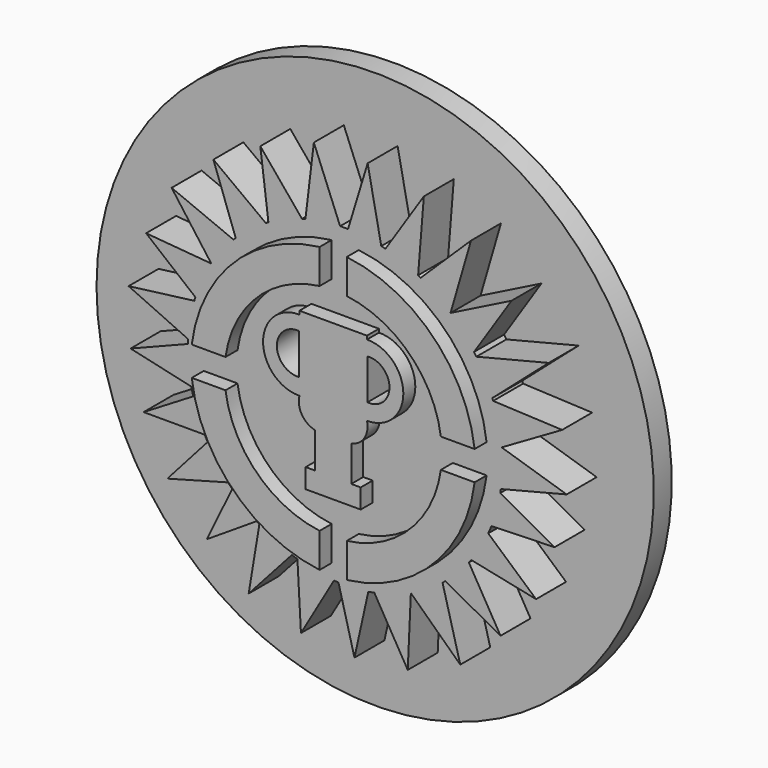
from build123d import *

# Parameters (mm, degrees)
F1_DEPTH = 6.35
F2_DEPTH = 8.89
F3_R     = 47.231154
F4_DEPTH = 3.81


with BuildPart() as f1:
    # F0 (on Front) → F1 (new body)
    with BuildSketch(Plane.XZ):
        with BuildLine():
            Line((-72.468472, 25.497057), (-62.116886, 25.497057))
            ThreePointArc((-62.116886, 25.497057), (-63.211959, 27.991302), (-64.046652, 30.584319))
            Line((-64.046652, 30.584319), (-72.468472, 25.497057))
        make_face()
        with BuildLine():
            Line((-68.440348, 16.882773), (-58.145573, 19.662977))
            ThreePointArc((-58.145573, 19.662977), (-60.02173, 22.01151), (-61.621433, 24.556412))
            Line((-61.621433, 24.556412), (-68.440348, 16.882773))
        make_face()
        with BuildLine():
            Line((-61.740946, 10.013767), (-53.325096, 15.437365))
            ThreePointArc((-53.325096, 15.437365), (-55.474469, 17.070756), (-57.447538, 18.913246))
            Line((-57.447538, 18.913246), (-61.740946, 10.013767))
        make_face()
        with BuildLine():
            Line((-54.659933, 4.204792), (-47.321835, 12.370412))
            ThreePointArc((-47.321835, 12.370412), (-50.163723, 13.583659), (-52.846042, 15.117758))
            Line((-52.846042, 15.117758), (-54.659933, 4.204792))
        make_face()
        with BuildLine():
            Line((-45.798071, 1.194302), (-40.197733, 10.863806))
            ThreePointArc((-40.197733, 10.863806), (-43.33033, 11.275472), (-46.392177, 12.055038))
            Line((-46.392177, 12.055038), (-45.798071, 1.194302))
        make_face()
        with BuildLine():
            Line((-27.692726, 1.575914), (-27.164938, 13.233446))
            ThreePointArc((-27.164938, 13.233446), (-30.199563, 12.056629), (-33.355031, 11.258583))
            Line((-33.355031, 11.258583), (-27.692726, 1.575914))
        make_face()
        with BuildLine():
            Line((-36.724199, 0.473481), (-34.378867, 11.085872))
            ThreePointArc((-34.378867, 11.085872), (-36.901094, 10.832685), (-39.435966, 10.82032))
            Line((-39.435966, 10.82032), (-36.724199, 0.473481))
        make_face()
        with BuildLine():
            Line((-18.788459, 5.264825), (-21.794904, 16.522102))
            ThreePointArc((-21.794904, 16.522102), (-24.382431, 14.718584), (-27.164938, 13.233446))
            Line((-27.164938, 13.233446), (-18.788459, 5.264825))
        make_face()
        with BuildLine():
            Line((-11.961851, 11.79462), (-17.338687, 20.989131))
            ThreePointArc((-17.338687, 20.989131), (-19.219819, 18.840528), (-21.32009, 16.905583))
            Line((-21.32009, 16.905583), (-11.961851, 11.79462))
        make_face()
        with BuildLine():
            Line((-5.94087, 19.214842), (-14.050301, 26.395063))
            ThreePointArc((-14.050301, 26.395063), (-15.369085, 23.868043), (-16.950265, 21.496357))
            Line((-16.950265, 21.496357), (-5.94087, 19.214842))
        make_face()
        with BuildLine():
            Line((-2.803177, 27.991908), (-12.01095, 33.086167))
            ThreePointArc((-12.01095, 33.086167), (-12.618733, 30.331533), (-13.514323, 27.656588))
            Line((-13.514323, 27.656588), (-2.803177, 27.991908))
        make_face()
        with BuildLine():
            ThreePointArc((-11.772855, 39.971174), (-11.682633, 38.707943), (-11.652537, 37.441852))
            ThreePointArc((-11.652537, 37.441852), (-11.718199, 35.572378), (-11.914862, 33.712118))
            Line((-11.914862, 33.712118), (-0.750545, 36.533233))
            Line((-0.750545, 36.533233), (-11.772855, 39.971174))
        make_face()
        with BuildLine():
            ThreePointArc((-13.215669, 46.433987), (-12.292717, 43.247575), (-11.772855, 39.971174))
            Line((-11.772855, 39.971174), (-1.516628, 45.914907))
            Line((-1.516628, 45.914907), (-13.215669, 46.433987))
        make_face()
        with BuildLine():
            ThreePointArc((-16.055091, 52.112807), (-14.558451, 49.542126), (-13.357668, 46.820646))
            Line((-13.357668, 46.820646), (-3.80768, 55.16896))
            Line((-3.80768, 55.16896), (-16.055091, 52.112807))
        make_face()
        with BuildLine():
            ThreePointArc((-20.436903, 57.21477), (-18.31548, 55.068095), (-16.450419, 52.69529))
            Line((-16.450419, 52.69529), (-10.096844, 62.401496))
            Line((-10.096844, 62.401496), (-20.436903, 57.21477))
        make_face()
        with BuildLine():
            ThreePointArc((-25.497871, 60.81165), (-22.862262, 59.161126), (-20.436903, 57.21477))
            Line((-20.436903, 57.21477), (-16.969999, 69.139883))
            Line((-16.969999, 69.139883), (-25.497871, 60.81165))
        make_face()
        with BuildLine():
            ThreePointArc((-31.47247, 63.198546), (-28.644405, 62.277334), (-25.936627, 61.046672))
            Line((-25.936627, 61.046672), (-24.966219, 73.137991))
            Line((-24.966219, 73.137991), (-31.47247, 63.198546))
        make_face()
        with BuildLine():
            ThreePointArc((-37.811687, 64.083234), (-34.977744, 63.87996), (-32.181556, 63.376091))
            Line((-32.181556, 63.376091), (-34.489807, 74.979819))
            Line((-34.489807, 74.979819), (-37.811687, 64.083234))
        make_face()
        with BuildLine():
            ThreePointArc((-45.039301, 63.220911), (-42.122507, 63.811835), (-39.158008, 64.073808))
            Line((-39.158008, 64.073808), (-43.60909, 75.114585))
            Line((-43.60909, 75.114585), (-45.039301, 63.220911))
        make_face()
        with BuildLine():
            ThreePointArc((-51.31089, 60.694255), (-48.530531, 62.044756), (-45.61248, 63.064182))
            Line((-45.61248, 63.064182), (-52.68345, 71.61063))
            Line((-52.68345, 71.61063), (-51.31089, 60.694255))
        make_face()
        with BuildLine():
            ThreePointArc((-56.859722, 56.559281), (-54.422673, 58.655215), (-51.750978, 60.442445))
            Line((-51.750978, 60.442445), (-60.634747, 67.028522))
            Line((-60.634747, 67.028522), (-56.859722, 56.559281))
        make_face()
        with BuildLine():
            ThreePointArc((-60.99712, 51.397732), (-59.253808, 53.899964), (-57.236001, 56.186611))
            Line((-57.236001, 56.186611), (-67.719519, 60.513683))
            Line((-67.719519, 60.513683), (-60.99712, 51.397732))
        make_face()
        with BuildLine():
            ThreePointArc((-63.694328, 45.506906), (-62.525435, 48.534603), (-60.99712, 51.397732))
            Line((-60.99712, 51.397732), (-72.044447, 52.330237))
            Line((-72.044447, 52.330237), (-63.694328, 45.506906))
        make_face()
        with BuildLine():
            ThreePointArc((-64.907544, 38.838859), (-64.568395, 41.901175), (-63.878012, 44.90387))
            Line((-63.878012, 44.90387), (-75.012535, 43.468371))
            Line((-75.012535, 43.468371), (-64.907544, 38.838859))
        make_face()
        with BuildLine():
            ThreePointArc((-64.368101, 31.931053), (-64.832743, 35.007338), (-64.935641, 38.116812))
            Line((-64.935641, 38.116812), (-74.673332, 34.267295))
            Line((-74.673332, 34.267295), (-64.368101, 31.931053))
        make_face()
        with BuildLine():
            ThreePointArc((-11.914862, 33.712118), (-11.718199, 35.572378), (-11.652537, 37.441852))
            ThreePointArc((-11.652537, 37.441852), (-11.682633, 38.707943), (-11.772855, 39.971174))
            ThreePointArc((-11.772855, 39.971174), (-12.292717, 43.247575), (-13.215669, 46.433987))
            ThreePointArc((-13.215669, 46.433987), (-13.285921, 46.627591), (-13.357668, 46.820646))
            ThreePointArc((-13.357668, 46.820646), (-14.558451, 49.542126), (-16.055091, 52.112807))
            ThreePointArc((-16.055091, 52.112807), (-16.250831, 52.405354), (-16.450419, 52.69529))
            ThreePointArc((-16.450419, 52.69529), (-18.31548, 55.068095), (-20.436903, 57.21477))
            ThreePointArc((-20.436903, 57.21477), (-22.862262, 59.161126), (-25.497871, 60.81165))
            ThreePointArc((-25.497871, 60.81165), (-25.7167, 60.930186), (-25.936627, 61.046672))
            ThreePointArc((-25.936627, 61.046672), (-28.644405, 62.277334), (-31.47247, 63.198546))
            ThreePointArc((-31.47247, 63.198546), (-31.826404, 63.28975), (-32.181556, 63.376091))
            ThreePointArc((-32.181556, 63.376091), (-34.977744, 63.87996), (-37.811687, 64.083234))
            ThreePointArc((-37.811687, 64.083234), (-38.484907, 64.087026), (-39.158008, 64.073808))
            ThreePointArc((-39.158008, 64.073808), (-42.122507, 63.811835), (-45.039301, 63.220911))
            ThreePointArc((-45.039301, 63.220911), (-45.326327, 63.144144), (-45.61248, 63.064182))
            ThreePointArc((-45.61248, 63.064182), (-48.530531, 62.044756), (-51.31089, 60.694255))
            ThreePointArc((-51.31089, 60.694255), (-51.531533, 60.569397), (-51.750978, 60.442445))
            ThreePointArc((-51.750978, 60.442445), (-54.422673, 58.655215), (-56.859722, 56.559281))
            ThreePointArc((-56.859722, 56.559281), (-57.048788, 56.373881), (-57.236001, 56.186611))
            ThreePointArc((-57.236001, 56.186611), (-59.253808, 53.899964), (-60.99712, 51.397732))
            ThreePointArc((-60.99712, 51.397732), (-62.525435, 48.534603), (-63.694328, 45.506906))
            ThreePointArc((-63.694328, 45.506906), (-63.787954, 45.205932), (-63.878012, 44.90387))
            ThreePointArc((-63.878012, 44.90387), (-64.568395, 41.901175), (-64.907544, 38.838859))
            ThreePointArc((-64.907544, 38.838859), (-64.924041, 38.47793), (-64.935641, 38.116812))
            ThreePointArc((-64.935641, 38.116812), (-64.832743, 35.007338), (-64.368101, 31.931053))
            ThreePointArc((-64.368101, 31.931053), (-64.216126, 31.255598), (-64.046652, 30.584319))
            ThreePointArc((-64.046652, 30.584319), (-63.211959, 27.991302), (-62.116886, 25.497057))
            ThreePointArc((-62.116886, 25.497057), (-61.873851, 25.024263), (-61.621433, 24.556412))
            ThreePointArc((-61.621433, 24.556412), (-60.02173, 22.01151), (-58.145573, 19.662977))
            ThreePointArc((-58.145573, 19.662977), (-57.800159, 19.284757), (-57.447538, 18.913246))
            ThreePointArc((-57.447538, 18.913246), (-55.474469, 17.070756), (-53.325096, 15.437365))
            ThreePointArc((-53.325096, 15.437365), (-53.086433, 15.276267), (-52.846042, 15.117758))
            ThreePointArc((-52.846042, 15.117758), (-50.163723, 13.583659), (-47.321835, 12.370412))
            ThreePointArc((-47.321835, 12.370412), (-46.858458, 12.208444), (-46.392177, 12.055038))
            ThreePointArc((-46.392177, 12.055038), (-43.33033, 11.275472), (-40.197733, 10.863806))
            ThreePointArc((-40.197733, 10.863806), (-39.817005, 10.839336), (-39.435966, 10.82032))
            ThreePointArc((-39.435966, 10.82032), (-36.901094, 10.832685), (-34.378867, 11.085872))
            ThreePointArc((-34.378867, 11.085872), (-33.866108, 11.16724), (-33.355031, 11.258583))
            ThreePointArc((-33.355031, 11.258583), (-30.199563, 12.056629), (-27.164938, 13.233446))
            ThreePointArc((-27.164938, 13.233446), (-24.382431, 14.718584), (-21.794904, 16.522102))
            ThreePointArc((-21.794904, 16.522102), (-21.556399, 16.712483), (-21.32009, 16.905583))
            ThreePointArc((-21.32009, 16.905583), (-19.219819, 18.840528), (-17.338687, 20.989131))
            ThreePointArc((-17.338687, 20.989131), (-17.142956, 21.24158), (-16.950265, 21.496357))
            ThreePointArc((-16.950265, 21.496357), (-15.369085, 23.868043), (-14.050301, 26.395063))
            ThreePointArc((-14.050301, 26.395063), (-13.774199, 27.022379), (-13.514323, 27.656588))
            ThreePointArc((-13.514323, 27.656588), (-12.618733, 30.331533), (-12.01095, 33.086167))
            ThreePointArc((-12.01095, 33.086167), (-11.961046, 33.398857), (-11.914862, 33.712118))
        make_face()
        with BuildLine():
            Line((-62.272575, 34.958918), (-56.551188, 34.958918))
            ThreePointArc((-56.551188, 34.958918), (-51.24926, 24.364516), (-40.599231, 19.175231))
            Line((-40.599231, 19.175231), (-40.599231, 13.341561))
            ThreePointArc((-40.599231, 13.341561), (-55.165827, 20.410655), (-62.272575, 34.958918))
        make_face(mode=Mode.SUBTRACT)
        with BuildLine():
            Line((-44.019647, 50.325666), (-44.019647, 50.912552))
            Line((-44.019647, 50.912552), (-38.298364, 50.912552))
            Line((-38.298364, 50.912552), (-32.577081, 50.912552))
            Line((-32.577081, 50.912552), (-32.577081, 50.325666))
            ThreePointArc((-32.577081, 50.325666), (-26.408391, 44.270882), (-32.577081, 38.216099))
            ThreePointArc((-32.577081, 38.216099), (-33.00076, 35.515299), (-35.236961, 33.942647))
            Line((-35.236961, 33.942647), (-35.236961, 27.918598))
            Line((-35.236961, 27.918598), (-33.635846, 27.918598))
            Line((-33.635846, 27.918598), (-33.635846, 24.611946))
            Line((-33.635846, 24.611946), (-38.298364, 24.611946))
            Line((-38.298364, 24.611946), (-42.960882, 24.611946))
            Line((-42.960882, 24.611946), (-42.960882, 27.918598))
            Line((-42.960882, 27.918598), (-41.359767, 27.918598))
            Line((-41.359767, 27.918598), (-41.359767, 33.942647))
            ThreePointArc((-41.359767, 33.942647), (-43.595968, 35.515299), (-44.019647, 38.216099))
            ThreePointArc((-44.019647, 38.216099), (-50.188337, 44.270882), (-44.019647, 50.325666))
        make_face(mode=Mode.SUBTRACT)
        with BuildLine():
            Line((-35.997497, 13.341561), (-35.997497, 19.175231))
            ThreePointArc((-35.997497, 19.175231), (-25.347468, 24.364516), (-20.04554, 34.958918))
            Line((-20.04554, 34.958918), (-14.324153, 34.958918))
            ThreePointArc((-14.324153, 34.958918), (-21.430901, 20.410655), (-35.997497, 13.341561))
        make_face(mode=Mode.SUBTRACT)
        with BuildLine():
            ThreePointArc((-40.599231, 55.708472), (-51.24926, 50.519188), (-56.551188, 39.924786))
            Line((-56.551188, 39.924786), (-62.272575, 39.924786))
            ThreePointArc((-62.272575, 39.924786), (-55.165827, 54.473048), (-40.599231, 61.542143))
            Line((-40.599231, 61.542143), (-40.599231, 55.708472))
        make_face(mode=Mode.SUBTRACT)
        with BuildLine():
            ThreePointArc((-20.04554, 39.924786), (-25.347468, 50.519188), (-35.997497, 55.708472))
            Line((-35.997497, 55.708472), (-35.997497, 61.542143))
            ThreePointArc((-35.997497, 61.542143), (-21.430901, 54.473048), (-14.324153, 39.924786))
            Line((-14.324153, 39.924786), (-20.04554, 39.924786))
        make_face(mode=Mode.SUBTRACT)
    extrude(amount=F1_DEPTH)

    # F0 (on Front) → F2 (join)
    with BuildSketch(Plane.XZ):
        with BuildLine():
            ThreePointArc((-40.599231, 19.175231), (-51.24926, 24.364516), (-56.551188, 34.958918))
            Line((-56.551188, 34.958918), (-62.272575, 34.958918))
            ThreePointArc((-62.272575, 34.958918), (-55.165827, 20.410655), (-40.599231, 13.341561))
            Line((-40.599231, 13.341561), (-40.599231, 19.175231))
        make_face()
        with BuildLine():
            ThreePointArc((-20.04554, 34.958918), (-25.347468, 24.364516), (-35.997497, 19.175231))
            Line((-35.997497, 19.175231), (-35.997497, 13.341561))
            ThreePointArc((-35.997497, 13.341561), (-21.430901, 20.410655), (-14.324153, 34.958918))
            Line((-14.324153, 34.958918), (-20.04554, 34.958918))
        make_face()
        with BuildLine():
            Line((-35.997497, 61.542143), (-35.997497, 55.708472))
            ThreePointArc((-35.997497, 55.708472), (-25.347468, 50.519188), (-20.04554, 39.924786))
            Line((-20.04554, 39.924786), (-14.324153, 39.924786))
            ThreePointArc((-14.324153, 39.924786), (-21.430901, 54.473048), (-35.997497, 61.542143))
        make_face()
        with BuildLine():
            Line((-62.272575, 39.924786), (-56.551188, 39.924786))
            ThreePointArc((-56.551188, 39.924786), (-51.24926, 50.519188), (-40.599231, 55.708472))
            Line((-40.599231, 55.708472), (-40.599231, 61.542143))
            ThreePointArc((-40.599231, 61.542143), (-55.165827, 54.473048), (-62.272575, 39.924786))
        make_face()
        with BuildLine():
            Line((-38.298364, 50.912552), (-44.019647, 50.912552))
            Line((-44.019647, 50.912552), (-44.019647, 50.325666))
            ThreePointArc((-44.019647, 50.325666), (-50.188337, 44.270882), (-44.019647, 38.216099))
            ThreePointArc((-44.019647, 38.216099), (-43.595968, 35.515299), (-41.359767, 33.942647))
            Line((-41.359767, 33.942647), (-41.359767, 27.918598))
            Line((-41.359767, 27.918598), (-42.960882, 27.918598))
            Line((-42.960882, 27.918598), (-42.960882, 24.611946))
            Line((-42.960882, 24.611946), (-38.298364, 24.611946))
            Line((-38.298364, 24.611946), (-33.635846, 24.611946))
            Line((-33.635846, 24.611946), (-33.635846, 27.918598))
            Line((-33.635846, 27.918598), (-35.236961, 27.918598))
            Line((-35.236961, 27.918598), (-35.236961, 33.942647))
            ThreePointArc((-35.236961, 33.942647), (-33.00076, 35.515299), (-32.577081, 38.216099))
            ThreePointArc((-32.577081, 38.216099), (-26.408391, 44.270882), (-32.577081, 50.325666))
            Line((-32.577081, 50.325666), (-32.577081, 50.912552))
            Line((-32.577081, 50.912552), (-38.298364, 50.912552))
        make_face()
        with BuildLine():
            Line((-44.104263, 47.856074), (-44.104263, 40.99014))
            ThreePointArc((-44.104263, 40.99014), (-47.84285, 44.423107), (-44.104263, 47.856074))
        make_face(mode=Mode.SUBTRACT)
        with BuildLine():
            Line((-32.492465, 40.99014), (-32.492465, 47.856074))
            ThreePointArc((-32.492465, 47.856074), (-28.753878, 44.423107), (-32.492465, 40.99014))
        make_face(mode=Mode.SUBTRACT)
    extrude(amount=F2_DEPTH)

    # F3 (on face) → F4 (join)
    with BuildSketch(Plane(origin=(0, 0, 0), x_dir=(-1, 0, 0), z_dir=(0, 1, 0))):
        with Locations((38.298364, 37.441852)):
            Circle(F3_R)
    extrude(amount=F4_DEPTH)


solid = f1.part
